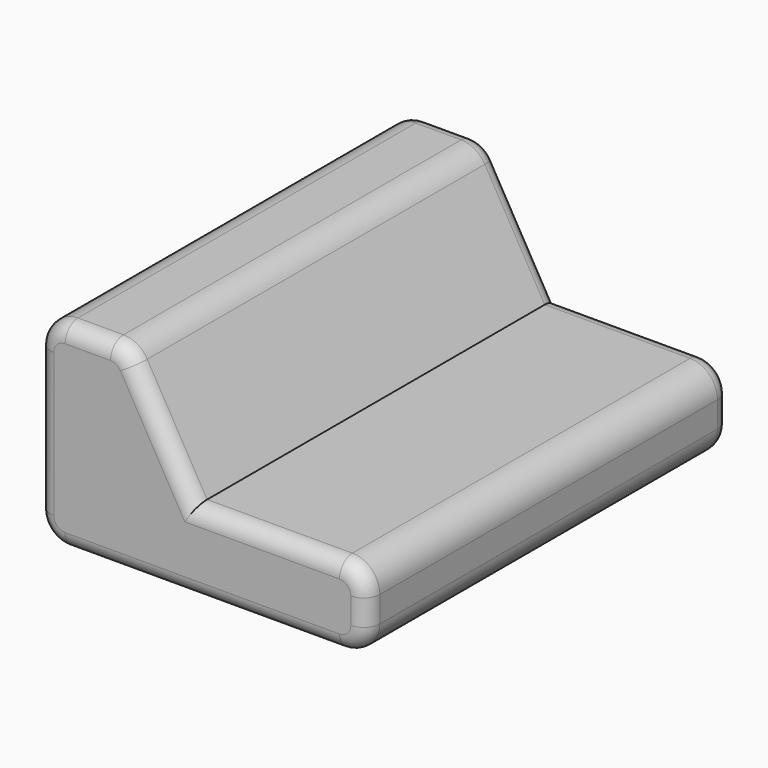
from build123d import *

# Parameters (mm, degrees)
F1_DEPTH = 1407
F2_R     = 85
F3_R     = 50


with BuildPart() as f1:
    # F0 (on Front) → F1 (new body)
    with BuildSketch(Plane.XZ):
        Polygon((0, 615), (0, 0), (1020, 0), (1020, 250), (485, 250), (275, 615), align=None)
    extrude(amount=F1_DEPTH)

    # F2
    f2_edges = [f1.edges().sort_by_distance(p)[0] for p in [
        (275, -703.5, 615),
        (1020, -703.5, 250),
        (1020, -703.5, 0),
        (0, -703.5, 0),
        (0, -703.5, 615),
    ]]
    fillet(f2_edges, radius=F2_R)

    # F3
    f3_edges = [f1.edges().sort_by_distance(p)[0] for p in [
        (392.257957, 0, 411.194503),
        (155.419892, 0, 615),
        (268.395245, 0, 603.580111),
        (710, 0, 250),
        (995.104076, 0, 225.104076),
        (1020, 0, 125),
        (995.104076, 0, 24.895924),
        (24.895924, 0, 590.104076),
        (0, 0, 307.5),
        (24.895924, 0, 24.895924),
        (510, 0, 0),
        (710, -1407, 250),
        (392.257957, -1407, 411.194503),
        (268.395245, -1407, 603.580111),
        (155.419892, -1407, 615),
        (24.895924, -1407, 590.104076),
        (0, -1407, 307.5),
        (24.895924, -1407, 24.895924),
        (510, -1407, 0),
        (995.104076, -1407, 24.895924),
        (1020, -1407, 125),
        (995.104076, -1407, 225.104076),
    ]]
    fillet(f3_edges, radius=F3_R)


solid = f1.part
